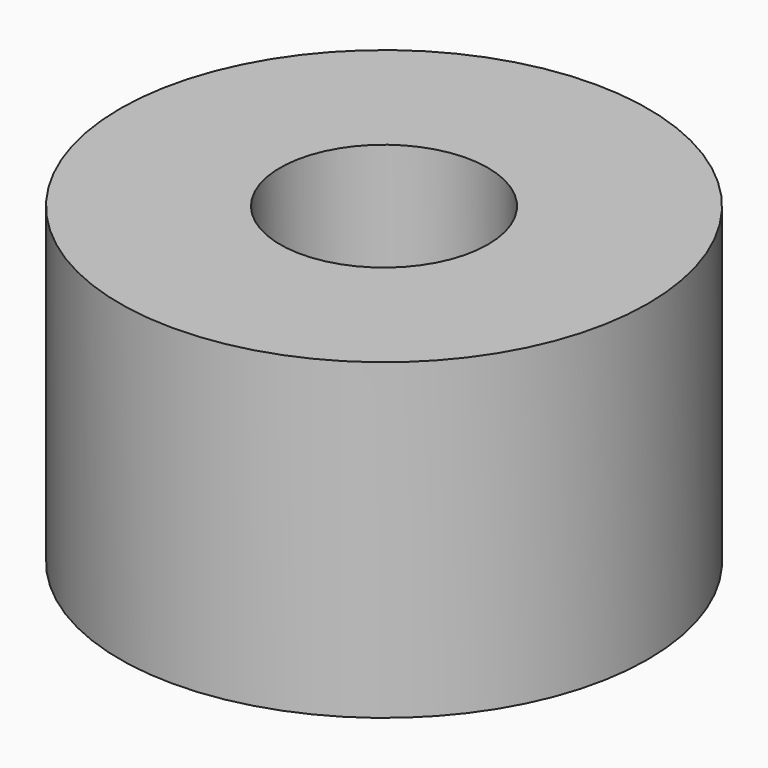
from build123d import *

# Parameters (mm, degrees)
SKETCH_R    = 3.683
PAD_DEPTH   = 4.3688
SKETCH001_R = 1.45
HOLE_DEPTH  = 24.9936


with BuildPart() as part:
    # Sketch → Pad (new body)
    with BuildSketch(Plane.XY):
        Circle(SKETCH_R)
    extrude(amount=PAD_DEPTH)

    # Sketch001 (on Face3 of Pad) → Hole (cut)
    with BuildSketch(Plane.XY.offset(4.3688)):
        Circle(SKETCH001_R)
    extrude(amount=-HOLE_DEPTH, mode=Mode.SUBTRACT)


solid = part.part
